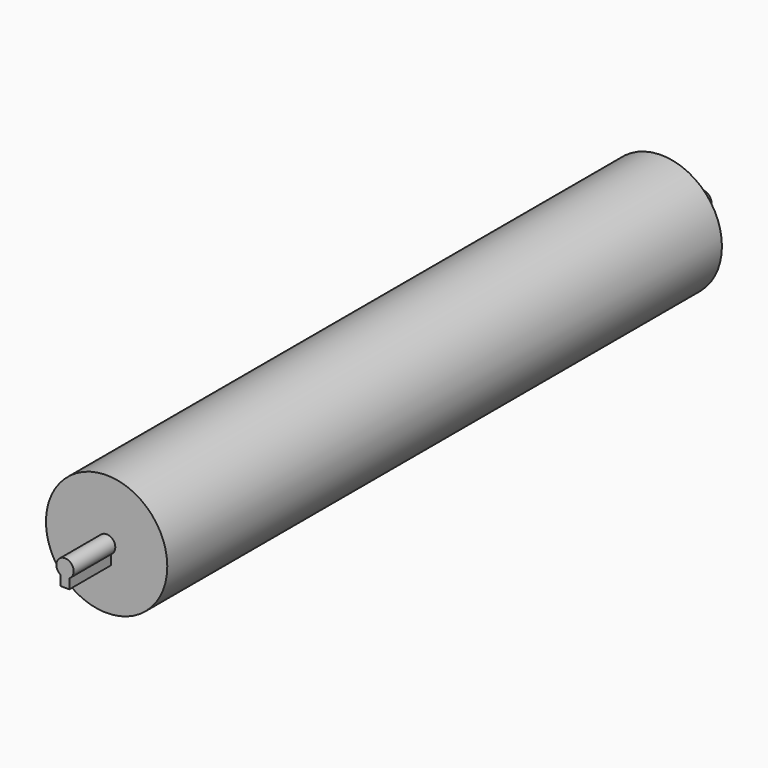
from build123d import *

# Parameters (mm, degrees)
F0_R     = 35
F1_DEPTH = 400
F2_R     = 5
F3_DEPTH = 30
F4_DEPTH = 430
F6_DEPTH = 30
F7_DEPTH = 430


with BuildPart() as f1:
    # F0 (on Front) → F1 (new body)
    with BuildSketch(Plane.XZ):
        Circle(F0_R)
    extrude(amount=F1_DEPTH)

    # F2 (on Front) → F3 (join)
    with BuildSketch(Plane.XZ):
        Circle(F2_R)
    extrude(amount=-F3_DEPTH)

    # F2 (on Front) → F4 (join)
    with BuildSketch(Plane.XZ):
        Circle(F2_R)
    extrude(amount=F4_DEPTH)

    # F5 (on face) → F6 (join, symmetric)
    with BuildSketch(Plane.XZ.offset(400)):
        with BuildLine():
            ThreePointArc((2.5, -4.3301270189), (0, -5), (-2.5, -4.3301270189))
            Line((-2.5, -4.3301270189), (-2.5, -10))
            Line((-2.5, -10), (2.5, -10))
            Line((2.5, -10), (2.5, -4.3301270189))
        make_face()
    extrude(amount=F6_DEPTH, both=True)

    # F5 (on face) → F7 (join)
    with BuildSketch(Plane.XZ.offset(400)):
        with BuildLine():
            ThreePointArc((2.5, -4.3301270189), (0, -5), (-2.5, -4.3301270189))
            Line((-2.5, -4.3301270189), (-2.5, -10))
            Line((-2.5, -10), (2.5, -10))
            Line((2.5, -10), (2.5, -4.3301270189))
        make_face()
    extrude(amount=-F7_DEPTH)


solid = f1.part
